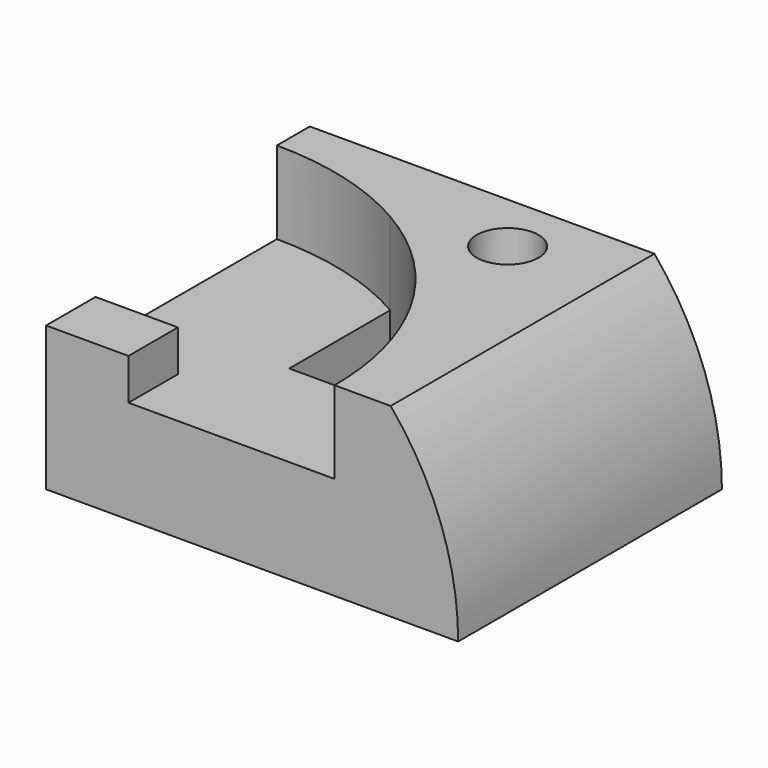
from build123d import *

# Parameters (mm, degrees)
F0_W      = 100
F0_H      = 80
F1_DEPTH  = 45
F5_DEPTH  = 45
F6_R      = 7.5
F8_DEPTH  = 30
F9_DEPTH  = 20
F3_W      = 20
F3_H      = 10
F10_DEPTH = 15
F12_DEPTH = 80


with BuildPart() as f1:
    # F0 (on Top) → F1 (new body)
    with BuildSketch(Plane.XY):
        with Locations((-1.529125, 6.107334)):
            Rectangle(F0_W, F0_H)
    extrude(amount=F1_DEPTH)

    # F4 (on face) → F5 (cut)
    with BuildSketch(Plane.XY.offset(45)):
        with BuildLine():
            ThreePointArc((11.716428, -3.892666), (-0.075549, 13.568155), (-16.529125, 26.729113))
            Line((-16.529125, 26.729113), (-16.529125, -3.892666))
            Line((-16.529125, -3.892666), (11.716428, -3.892666))
        make_face()
    extrude(amount=-F5_DEPTH, mode=Mode.SUBTRACT)

    # F6 (on face) → F8 (cut, through all)
    with BuildSketch(Plane.XY.offset(45)):
        with Locations((8.470875, 31.107334)):
            Circle(F6_R)
    extrude(amount=-F8_DEPTH, mode=Mode.SUBTRACT)

    # F4 (on face) → F9 (cut)
    with BuildSketch(Plane.XY.offset(45)):
        with BuildLine():
            Line((-16.529125, -3.892666), (-16.529125, 26.729113))
            ThreePointArc((-16.529125, 26.729113), (-33.411792, 33.722142), (-51.529125, 36.107334))
            Line((-51.529125, 36.107334), (-51.529125, -33.892666))
            Line((-51.529125, -33.892666), (18.470875, -33.892666))
            ThreePointArc((18.470875, -33.892666), (16.761389, -18.517177), (11.716428, -3.892666))
            Line((11.716428, -3.892666), (-16.529125, -3.892666))
        make_face()
    extrude(amount=-F9_DEPTH, mode=Mode.SUBTRACT)

    # F3 (on face) → F10 (join)
    with BuildSketch(Plane.XZ.offset(33.892666)):
        with Locations((-41.529125, 30)):
            Rectangle(F3_W, F3_H)
    extrude(amount=-F10_DEPTH)

    # F11 (on face) → F12 (cut, through all)
    with BuildSketch(Plane.XZ.offset(33.892666)):
        with BuildLine():
            ThreePointArc((32.089901, 45), (44.248271, 23.944395), (48.470875, 0))
            Line((48.470875, 0), (48.470875, 45))
            Line((48.470875, 45), (32.089901, 45))
        make_face()
    extrude(amount=-F12_DEPTH, mode=Mode.SUBTRACT)


solid = f1.part
